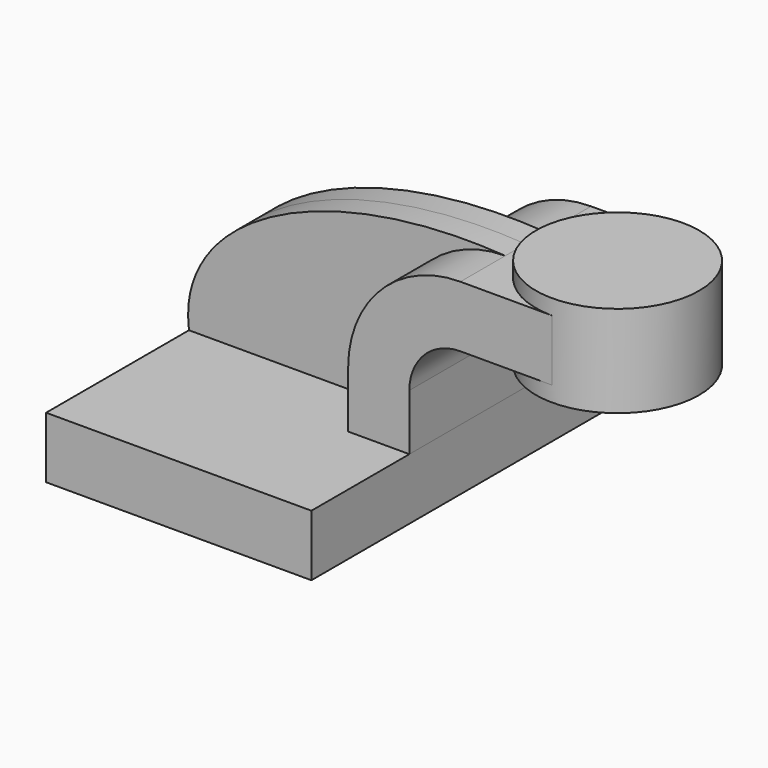
from build123d import *

# Parameters (mm, degrees)
F1_DEPTH = 63.5
F0_W     = 25.4
F0_H     = 19.05
F2_DEPTH = 25.4
F3_DEPTH = 7.9375


with BuildPart() as f1:
    # F0 (on Front) → F1 (new body, symmetric)
    with BuildSketch(Plane.XZ):
        Polygon((-41.275, -9.525), (41.275, -9.525), (41.275, 9.525), (22.225, 9.525), (-41.275, 9.525), align=None)
    extrude(amount=F1_DEPTH, both=True)


with BuildPart() as f2:
    # F0 (on Front) → F2 (new body, symmetric)
    with BuildSketch(Plane.XZ):
        with BuildLine():
            Line((22.225, 9.525), (41.275, 9.525))
            Line((41.275, 9.525), (41.275, 27.0002))
            ThreePointArc((41.275, 27.0002), (45.9246798487, 38.2255201513), (57.15, 42.8752))
            Line((57.15, 42.8752), (60.325, 42.8752))
            Line((60.325, 42.8752), (60.325, 61.9252))
            Line((60.325, 61.9252), (57.15, 61.9252))
            ThreePointArc((57.15, 61.9252), (32.4542956671, 51.6959043329), (22.225, 27.0002))
            Line((22.225, 27.0002), (22.225, 9.525))
        make_face()
        with Locations((73.025, 52.4002)):
            Rectangle(F0_W, F0_H)
    extrude(amount=F2_DEPTH, both=True)

    # F0 (on Front) → F4 (revolve)
    with BuildSketch(Plane.XZ):
        Polygon((85.725, 66.675), (85.725, 61.9252), (85.725, 42.8752), (85.725, 38.1), (111.125, 38.1), (111.125, 66.675), align=None)
    revolve(axis=Axis((85.725, 0, 52.3875), (0, 0, 1)))


with BuildPart() as f3:
    # F0 (on Front) → F3 (new body, symmetric)
    with BuildSketch(Plane.XZ):
        with BuildLine():
            add(Edge.make_bspline(
                [(-41.275, 9.525), (-45.4798899591, 41.6644178331), (0, 65.7511204481), (57.15, 61.9252)],
                knots=[0, 0, 0, 0, 111.5045361635, 111.5045361635, 111.5045361635, 111.5045361635], degree=3))
            Line((-41.275, 9.525), (22.225, 9.525))
            Line((22.225, 9.525), (22.225, 27.0002))
            ThreePointArc((22.225, 27.0002), (32.4542956671, 51.6959043329), (57.15, 61.9252))
        make_face()
    extrude(amount=F3_DEPTH, both=True)


solid = Compound([f1.part, f2.part, f3.part])
